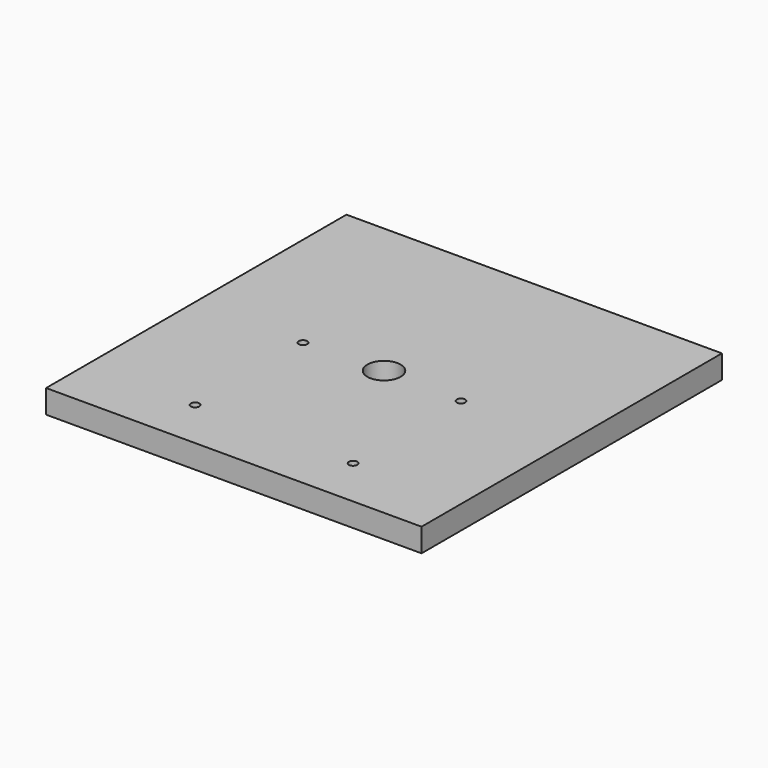
from build123d import *

# Parameters (mm, degrees)
F0_W     = 152.4
F0_H     = 152.4
F1_DEPTH = 9.525
F3_D     = 3.4544
F5_D     = 13.49248


with BuildPart() as f1:
    # F0 (on Top) → F1 (new body)
    with BuildSketch(Plane.XY):
        Rectangle(F0_W, F0_H)
    extrude(amount=F1_DEPTH)

    # F3 (through all)
    with Locations(Plane.XY.offset(9.525)):
        with Locations((-32.0675, -1.016), (-32.0675, -55.753), (32.0675, -55.753), (32.0675, -1.016)):
            Hole(F3_D / 2)

    # F5 (through all)
    with Locations(Plane.XY.offset(9.525)):
        with Locations((0, 0)):
            Hole(F5_D / 2)


solid = f1.part
